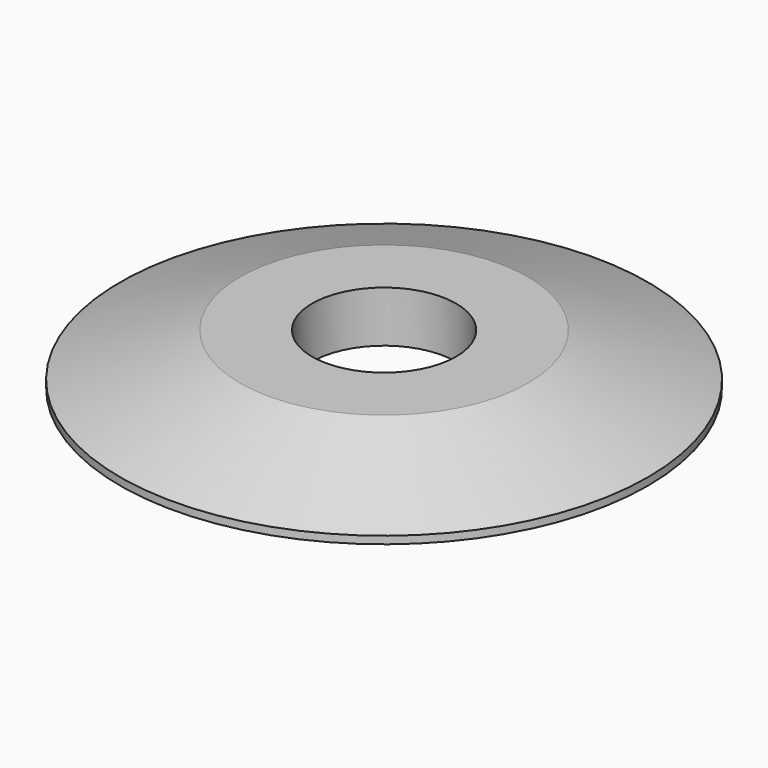
from build123d import *

# Parameters (mm, degrees)
F0_R     = 33
F1_DEPTH = 3.2
F2_R     = 9
F3_DEPTH = 6.401
F4_SIZE2 = 5.459553514
F4_SIZE  = 15


with BuildPart() as f1:
    # F0 (on Top) → F1 (new body, symmetric)
    with BuildSketch(Plane.XY):
        Circle(F0_R)
    extrude(amount=F1_DEPTH, both=True)

    # F2 (on face) → F3 (cut, through all)
    with BuildSketch(Plane.XY.offset(3.2)):
        Circle(F2_R)
    extrude(amount=-F3_DEPTH, mode=Mode.SUBTRACT)

    # F4
    f4_edges = [f1.edges().sort_by_distance(p)[0] for p in [
        (-33, 0, 3.2),
    ]]
    f4_side = f1.faces().sort_by_distance((-32.066619, 0, 3.2))[0]
    chamfer(f4_edges, length=F4_SIZE, length2=F4_SIZE2, reference=f4_side)


solid = f1.part
